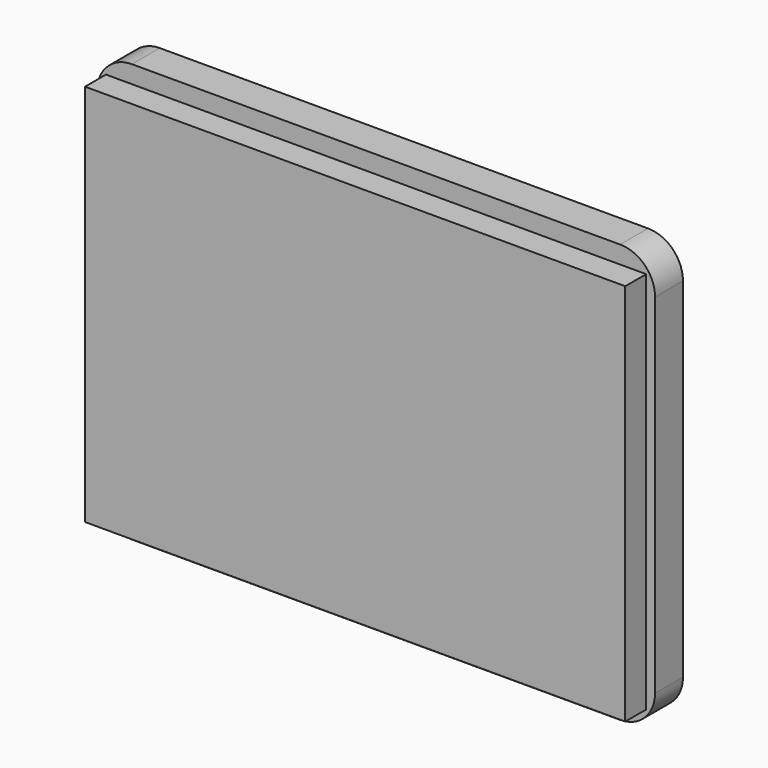
from build123d import *

# Parameters (mm, degrees)
F0_W     = 160
F0_H     = 120
F1_DEPTH = 10
F2_R     = 10
F3_W     = 154.9
F3_H     = 109.9
F4_DEPTH = 7.5


with BuildPart() as f1:
    # F0 (on Front) → F1 (new body)
    with BuildSketch(Plane.XZ):
        with Locations((5.032664, 11.062619)):
            Rectangle(F0_W, F0_H)
    extrude(amount=F1_DEPTH)

    # F2
    f2_edges = [f1.edges().sort_by_distance(p)[0] for p in [
        (-74.967336, -5, 71.062619),
        (-74.967336, -5, -48.937381),
        (85.032664, -5, 71.062619),
        (85.032664, -5, -48.937381),
    ]]
    fillet(f2_edges, radius=F2_R)

    # F3 (on face) → F4 (join)
    with BuildSketch(Plane.XZ.offset(10)):
        with Locations((5.032664, 11.062619)):
            Rectangle(F3_W, F3_H)
    extrude(amount=F4_DEPTH)


solid = f1.part
